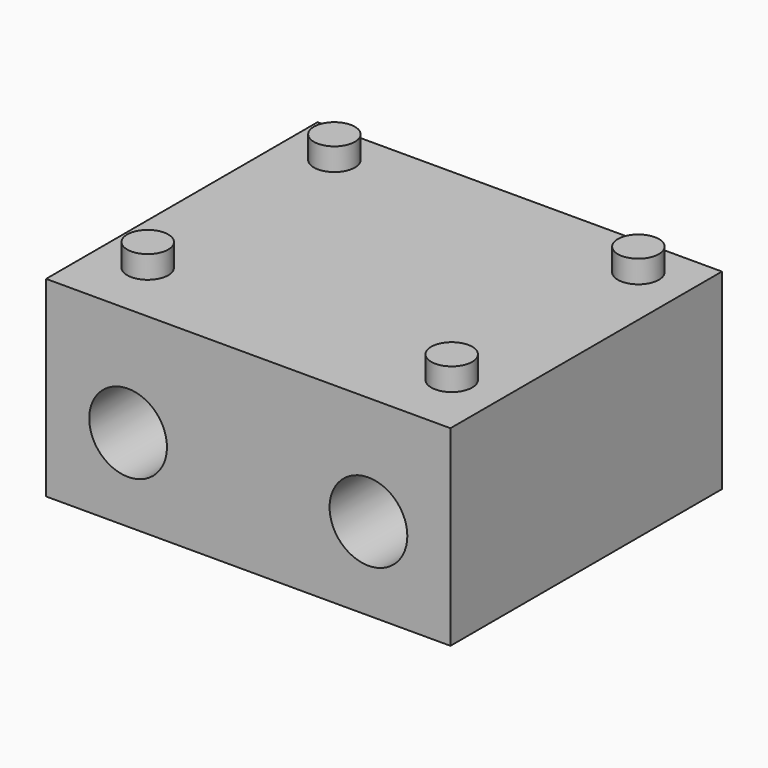
from build123d import *

# Parameters (mm, degrees)
SKETCH015_W     = 28.6
SKETCH015_H     = 13.55
SKETCH015_R     = 1.75
PAD007_DEPTH    = 24
SKETCH016_R     = 2.75
POCKET008_DEPTH = 8
SKETCH017_R     = 1.45
PAD008_DEPTH    = 1.6


with BuildPart() as part:
    # Sketch015 (on Face21 of Binder004) → Pad007 (new body)
    with BuildSketch(Plane.XZ.offset(-32.95)):
        with Locations((13.74978, -6.775)):
            Rectangle(SKETCH015_W, SKETCH015_H)
        with Locations((5.24978, -7.7)):
            Circle(SKETCH015_R, mode=Mode.SUBTRACT)
        with Locations((22.24978, -7.7)):
            Circle(SKETCH015_R, mode=Mode.SUBTRACT)
    extrude(amount=PAD007_DEPTH)

    # Sketch016 (on Face8 of Pad007) → Pocket008 (cut)
    with BuildSketch(Plane.XZ.offset(-8.95)):
        with Locations((5.24978, -7.7)):
            Circle(SKETCH016_R)
        with Locations((22.24978, -7.7)):
            Circle(SKETCH016_R)
    extrude(amount=-POCKET008_DEPTH, mode=Mode.SUBTRACT)

    # Sketch017 (on Face6 of Pocket008) → Pad008 (join)
    with BuildSketch(Plane.XY):
        with Locations((3, 13.5)):
            Circle(SKETCH017_R)
        with Locations((24.5, 13.5)):
            Circle(SKETCH017_R)
        with Locations((24.5, 30)):
            Circle(SKETCH017_R)
        with Locations((3, 30)):
            Circle(SKETCH017_R)
    extrude(amount=PAD008_DEPTH)


solid = part.part
